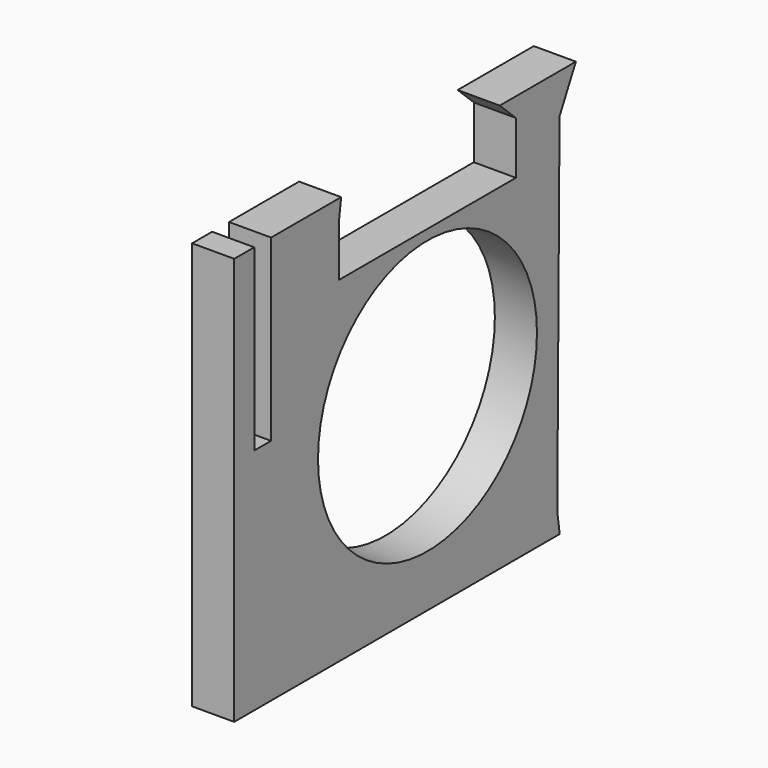
from build123d import *

# Parameters (mm, degrees)
F0_R     = 13
F1_DEPTH = 4


with BuildPart() as f1:
    # F0 (on Right) → F1 (new body)
    with BuildSketch(Plane.YZ):
        Polygon((15.412828, -15.937231), (-22.950384, -15.937231), (-22.950384, -17.937231), (15.699004, -17.937231), align=None)
        Polygon((-22.950384, 20.790322), (-22.950384, -15.937231), (15.412828, -15.937231), (15.679364, 16.999187), (17.621164, 20.790322), (10.5, 20.790322), (8.581838, 20.790322), (10.5, 18.970987), (10.5, 13.970987), (-10.5, 13.970987), (-10.5, 18.970987), (-10.25, 20.790322), (-18.572044, 20.790322), (-18.572044, 3.790322), (-20.572044, 3.790322), (-20.572044, 20.790322), align=None)
        Circle(F0_R, mode=Mode.SUBTRACT)
    extrude(amount=F1_DEPTH)


solid = f1.part
